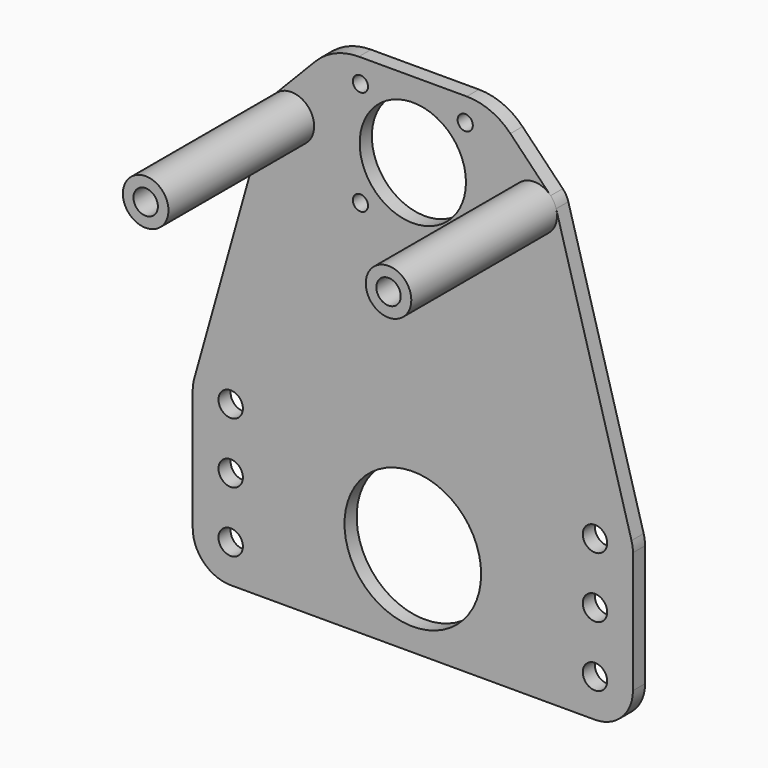
from build123d import *

# Parameters (mm, degrees)
F0_R     = 2.5527
F0_R_2   = 14.2875
F0_R_3   = 1.5875
F0_R_4   = 11.1125
F1_DEPTH = 3.175
F2_R     = 4.7625
F2_R_2   = 2.5527
F3_DEPTH = 38.1


with BuildPart() as f1:
    # F0 (on Front) → F1 (new body)
    with BuildSketch(Plane.XZ):
        with BuildLine():
            Line((-20.41235, 12.005275), (-28.822915, 3.311353))
            ThreePointArc((-28.822915, 3.311353), (-29.529158, 2.37307), (-29.984325, 1.290492))
            Line((-29.984325, 1.290492), (-45.740542, -54.681681))
            ThreePointArc((-45.740542, -54.681681), (-45.96291, -55.746889), (-46.0375, -56.8325))
            Line((-46.0375, -56.8325), (-46.0375, -82.2325))
            ThreePointArc((-46.0375, -82.2325), (-43.71266, -87.84516), (-38.1, -90.17))
            Line((-38.1, -90.17), (38.1, -90.17))
            ThreePointArc((38.1, -90.17), (43.71266, -87.84516), (46.0375, -82.2325))
            Line((46.0375, -82.2325), (46.0375, -56.8325))
            ThreePointArc((46.0375, -56.8325), (45.96291, -55.746889), (45.740542, -54.681681))
            Line((45.740542, -54.681681), (29.984325, 1.290492))
            ThreePointArc((29.984325, 1.290492), (29.529158, 2.37307), (28.822915, 3.311353))
            Line((28.822915, 3.311353), (20.41235, 12.005275))
            ThreePointArc((20.41235, 12.005275), (16.241669, 14.867615), (11.284577, 15.875))
            Line((11.284577, 15.875), (-11.284577, 15.875))
            ThreePointArc((-11.284577, 15.875), (-16.241669, 14.867615), (-20.41235, 12.005275))
        make_face()
        with Locations((-38.1, -82.2325)):
            Circle(F0_R, mode=Mode.SUBTRACT)
        with Locations((-38.1, -69.5325)):
            Circle(F0_R, mode=Mode.SUBTRACT)
        with Locations((-38.1, -56.8325)):
            Circle(F0_R, mode=Mode.SUBTRACT)
        with Locations((0, -71.12)):
            Circle(F0_R_2, mode=Mode.SUBTRACT)
        with Locations((38.1, -82.2325)):
            Circle(F0_R, mode=Mode.SUBTRACT)
        with Locations((38.1, -69.5325)):
            Circle(F0_R, mode=Mode.SUBTRACT)
        with Locations((38.1, -56.8325)):
            Circle(F0_R, mode=Mode.SUBTRACT)
        with Locations((-10.9601, -10.9601)):
            Circle(F0_R_3, mode=Mode.SUBTRACT)
        with Locations((-25.4, 0)):
            Circle(F0_R, mode=Mode.SUBTRACT)
        with Locations((-10.9601, 10.9601)):
            Circle(F0_R_3, mode=Mode.SUBTRACT)
        with Locations((10.9601, -10.9601)):
            Circle(F0_R_3, mode=Mode.SUBTRACT)
        Circle(F0_R_4, mode=Mode.SUBTRACT)
        with Locations((10.9601, 10.9601)):
            Circle(F0_R_3, mode=Mode.SUBTRACT)
        with Locations((25.4, 0)):
            Circle(F0_R, mode=Mode.SUBTRACT)
    extrude(amount=F1_DEPTH)


with BuildPart() as f3:
    # F2 (on face) → F3 (new body)
    with BuildSketch(Plane.XZ.offset(3.175)):
        with Locations((-25.4, 0)):
            Circle(F2_R)
        with Locations((-25.4, 0)):
            Circle(F2_R_2, mode=Mode.SUBTRACT)
        with Locations((25.4, 0)):
            Circle(F2_R)
        with Locations((25.4, 0)):
            Circle(F2_R_2, mode=Mode.SUBTRACT)
    extrude(amount=F3_DEPTH)


solid = Compound([f1.part, f3.part])
